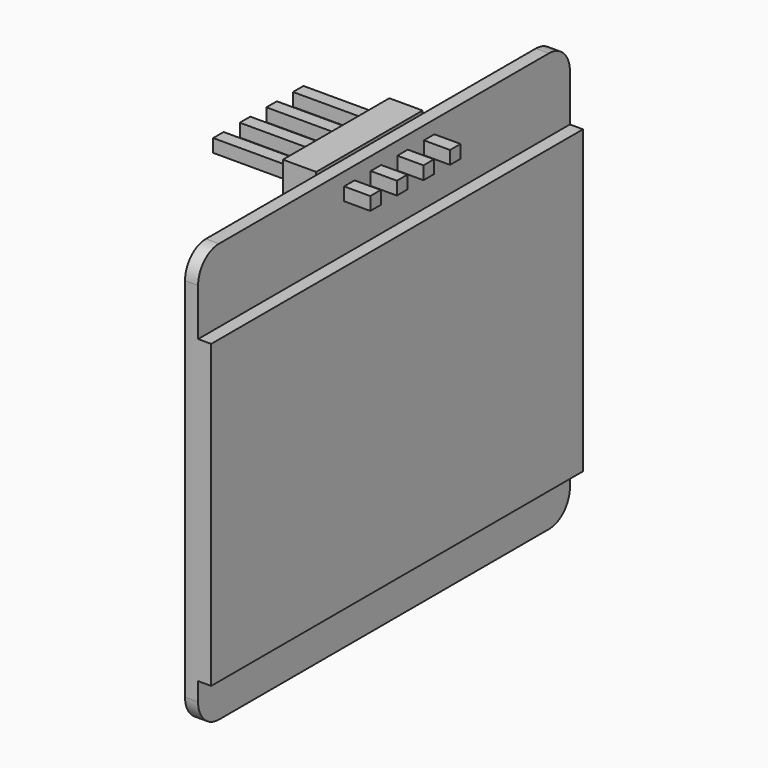
from build123d import *

# Parameters (mm, degrees)
BOX003001_W           = 2.54
BOX003001_H           = 2.54
BOX003001_DEPTH       = 2.54
BOX002001_W           = 12
BOX002001_H           = 1
BOX002001_DEPTH       = 1
BOX003001001_W        = 2.54
BOX003001001_H        = 2.54
BOX003001001_DEPTH    = 2.54
BOX002001001_W        = 12
BOX002001001_H        = 1
BOX002001001_DEPTH    = 1
BOX003001001001_W     = 2.54
BOX003001001001_H     = 2.54
BOX003001001001_DEPTH = 2.54
BOX002001001001_W     = 12
BOX002001001001_H     = 1
BOX002001001001_DEPTH = 1
BOX003_W              = 2.54
BOX003_H              = 2.54
BOX003_DEPTH          = 2.54
BOX002_W              = 12
BOX002_H              = 1
BOX002_DEPTH          = 1
BOX_W                 = 1
BOX_H                 = 35.5
BOX_DEPTH             = 32
FILLET_R              = 2
FILLET001_R           = 2
FILLET002_R           = 2
FILLET003_R           = 2
BOX001_W              = 1
BOX001_H              = 35.5
BOX001_DEPTH          = 23


with BuildPart() as housing001:
    # Box003001 → Box003001 (new body)
    with BuildSketch(Plane(origin=(-5, 13.1, 29.3), x_dir=(1, 0, 0), z_dir=(0, 0, 1))):
        with Locations((1.27, 1.27)):
            Rectangle(BOX003001_W, BOX003001_H)
    extrude(amount=BOX003001_DEPTH)


with BuildPart() as pin003:
    # Box002001 → Box002001 (new body)
    with BuildSketch(Plane(origin=(-11, 13.94, 30), x_dir=(1, 0, 0), z_dir=(0, 0, 1))):
        with Locations((6, 0.5)):
            Rectangle(BOX002001_W, BOX002001_H)
    extrude(amount=BOX002001_DEPTH)

    # Fusion001: union Housing001
    add(housing001.part)


with BuildPart() as pin003_1:
    # Fusion001 placement: moved
    add(pin003.part.moved(Location((0, 2.54, 0))))


with BuildPart() as housing002:
    # Box003001001 → Box003001001 (new body)
    with BuildSketch(Plane(origin=(-5, 13.1, 29.3), x_dir=(1, 0, 0), z_dir=(0, 0, 1))):
        with Locations((1.27, 1.27)):
            Rectangle(BOX003001001_W, BOX003001001_H)
    extrude(amount=BOX003001001_DEPTH)


with BuildPart() as pin004:
    # Box002001001 → Box002001001 (new body)
    with BuildSketch(Plane(origin=(-11, 13.94, 30), x_dir=(1, 0, 0), z_dir=(0, 0, 1))):
        with Locations((6, 0.5)):
            Rectangle(BOX002001001_W, BOX002001001_H)
    extrude(amount=BOX002001001_DEPTH)

    # Fusion001001: union Housing002
    add(housing002.part)


with BuildPart() as pin004_1:
    # Fusion001001 placement: moved
    add(pin004.part.moved(Location((0, 5.08, 0))))


with BuildPart() as housing003:
    # Box003001001001 → Box003001001001 (new body)
    with BuildSketch(Plane(origin=(-5, 13.1, 29.3), x_dir=(1, 0, 0), z_dir=(0, 0, 1))):
        with Locations((1.27, 1.27)):
            Rectangle(BOX003001001001_W, BOX003001001001_H)
    extrude(amount=BOX003001001001_DEPTH)


with BuildPart() as pin006:
    # Box002001001001 → Box002001001001 (new body)
    with BuildSketch(Plane(origin=(-11, 13.94, 30), x_dir=(1, 0, 0), z_dir=(0, 0, 1))):
        with Locations((6, 0.5)):
            Rectangle(BOX002001001001_W, BOX002001001001_H)
    extrude(amount=BOX002001001001_DEPTH)

    # Fusion001001001: union Housing003
    add(housing003.part)


with BuildPart() as pin006_1:
    # Fusion001001001 placement: moved
    add(pin006.part.moved(Location((0, 7.62, 0))))


with BuildPart() as housing:
    # Box003 → Box003 (new body)
    with BuildSketch(Plane(origin=(-5, 13.1, 29.3), x_dir=(1, 0, 0), z_dir=(0, 0, 1))):
        with Locations((1.27, 1.27)):
            Rectangle(BOX003_W, BOX003_H)
    extrude(amount=BOX003_DEPTH)


with BuildPart() as pins:
    # Box002 → Box002 (new body)
    with BuildSketch(Plane(origin=(-11, 13.94, 30), x_dir=(1, 0, 0), z_dir=(0, 0, 1))):
        with Locations((6, 0.5)):
            Rectangle(BOX002_W, BOX002_H)
    extrude(amount=BOX002_DEPTH)

    # Fusion: union Housing
    add(housing.part)

    # Fusion001001002: union Pin003, Pin004, Pin006
    add(pin003_1.part)
    add(pin004_1.part)
    add(pin006_1.part)


with BuildPart() as pcb:
    # Box → Box (new body)
    with BuildSketch(Plane(origin=(-2, 0, 0), x_dir=(1, 0, 0), z_dir=(0, 0, 1))):
        with Locations((0.5, 17.75)):
            Rectangle(BOX_W, BOX_H)
    extrude(amount=BOX_DEPTH)

    # Fillet
    fillet_edges = [pcb.edges().sort_by_distance(p)[0] for p in [
        (-1.5, 0, 32),
    ]]
    fillet(fillet_edges, radius=FILLET_R)

    # Fillet001
    fillet001_edges = [pcb.edges().sort_by_distance(p)[0] for p in [
        (-1.5, 35.5, 32),
    ]]
    fillet(fillet001_edges, radius=FILLET001_R)

    # Fillet002
    fillet002_edges = [pcb.edges().sort_by_distance(p)[0] for p in [
        (-1.5, 0, 0),
    ]]
    fillet(fillet002_edges, radius=FILLET002_R)

    # Fillet003
    fillet003_edges = [pcb.edges().sort_by_distance(p)[0] for p in [
        (-1.5, 35.5, 0),
    ]]
    fillet(fillet003_edges, radius=FILLET003_R)


with BuildPart() as lcd:
    # Box001 → Box001 (new body)
    with BuildSketch(Plane(origin=(-1, 0, 3.4), x_dir=(1, 0, 0), z_dir=(0, 0, 1))):
        with Locations((0.5, 17.75)):
            Rectangle(BOX001_W, BOX001_H)
    extrude(amount=BOX001_DEPTH)

    # Fusion001001003: union Pins, Pcb
    add(pins.part)
    add(pcb.part)


solid = lcd.part
